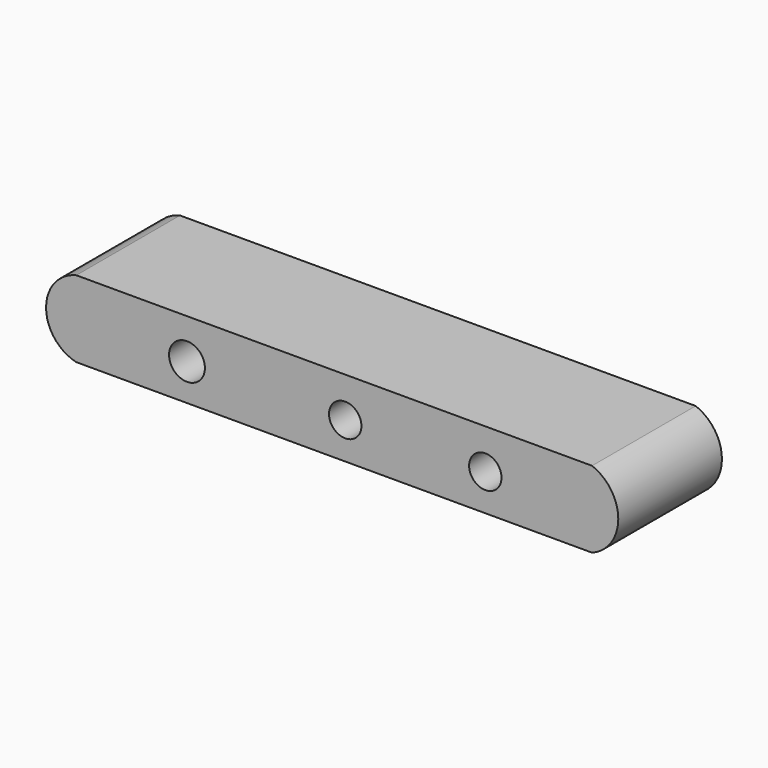
from build123d import *

# Parameters (mm, degrees)
F0_W     = 101.118554
F0_H     = 15
F0_R     = 3.514012
F0_R_2   = 3.175
F1_DEPTH = 25.4


with BuildPart() as f1:
    # F0 (on Front) → F1 (new body)
    with BuildSketch(Plane.XZ):
        with Locations((-2.165472, 0.328236)):
            Rectangle(F0_W, F0_H)
        with Locations((-31.025723, 0)):
            Circle(F0_R, mode=Mode.SUBTRACT)
        Circle(F0_R_2, mode=Mode.SUBTRACT)
        with Locations((27.468633, 0)):
            Circle(F0_R_2, mode=Mode.SUBTRACT)
        with BuildLine():
            Line((-52.724749, -7.171764), (-52.724749, 7.828236))
            ThreePointArc((-52.724749, 7.828236), (-58.651611, 0.328236), (-52.724749, -7.171764))
        make_face()
        with BuildLine():
            ThreePointArc((48.393805, -7.171764), (53.540338, 0.328236), (48.393805, 7.828236))
            Line((48.393805, 7.828236), (48.393805, -7.171764))
        make_face()
    extrude(amount=F1_DEPTH)


solid = f1.part
